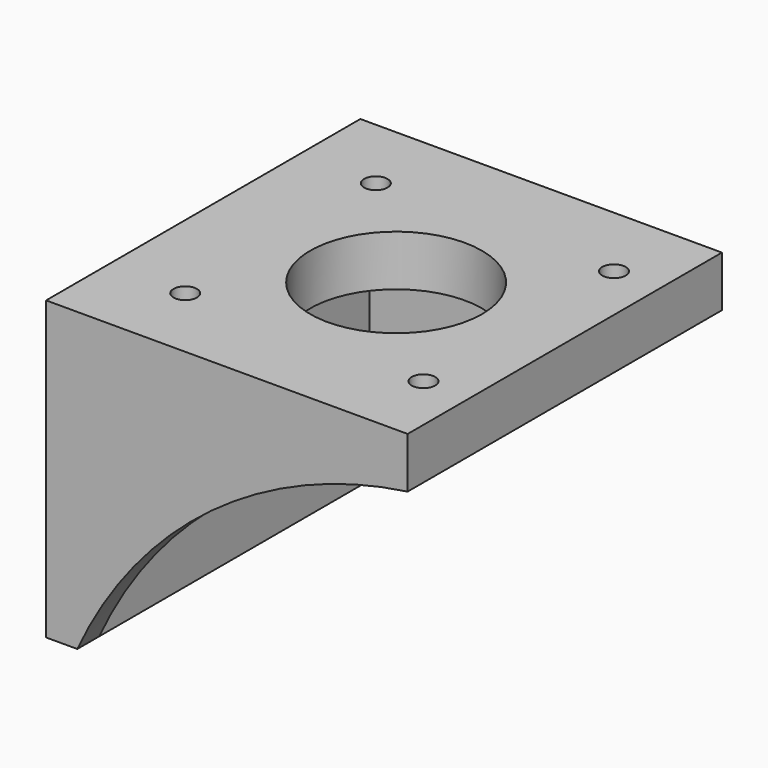
from build123d import *

# Parameters (mm, degrees)
F0_W     = 42.3
F0_H     = 42.3
F0_R     = 1.5
F0_R_2   = 11
F1_DEPTH = 6.5
F2_W     = 42.3
F2_H     = 38
F3_DEPTH = 4
F6_DEPTH = 4
F7_DEPTH = 4
F8_DEPTH = 0.5
F9_DEPTH = 0.5


with BuildPart() as f1:
    # F0 (on Top) → F1 (new body)
    with BuildSketch(Plane.XY):
        with Locations((0.9411764706, -0.8529411765)):
            Rectangle(F0_W, F0_H)
        with Locations((-14.3088235294, -16.1029411765)):
            Circle(F0_R, mode=Mode.SUBTRACT)
        with Locations((0.6911764706, -1.1029411765)):
            Circle(F0_R_2, mode=Mode.SUBTRACT)
        with Locations((16.1911764706, -16.1029411765)):
            Circle(F0_R, mode=Mode.SUBTRACT)
        with Locations((-14.3088235294, 14.3970588235)):
            Circle(F0_R, mode=Mode.SUBTRACT)
        with Locations((16.1911764706, 14.3970588235)):
            Circle(F0_R, mode=Mode.SUBTRACT)
    extrude(amount=F1_DEPTH)

    # F2 (on face) → F3 (join)
    with BuildSketch(Plane(origin=(-20.2088235294, 0, 0), x_dir=(0, -1, 0), z_dir=(-1, 0, 0))):
        with Locations((0.8529411765, -12.5)):
            Rectangle(F2_W, F2_H)
    extrude(amount=F3_DEPTH)

    # F5 (on face) → F6 (join)
    with BuildSketch(Plane(origin=(0, 20.2970588235, 0), x_dir=(-1, 0, 0), z_dir=(0, 1, 0))):
        with BuildLine():
            ThreePointArc((-22.0911764706, 0), (3.080762749, -10.3491101908), (20.2088235294, -31.5))
            Line((20.2088235294, -31.5), (20.2088235294, 0))
            Line((20.2088235294, 0), (-22.0911764706, 0))
        make_face()
        Polygon((20.2088235294, 0), (20.2088235294, -31.5), (24.2088235294, -31.5), (24.2088235294, 6.5), (-22.0911764706, 6.5), (-22.0911764706, 0), align=None)
    extrude(amount=F6_DEPTH)

    # F4 (on face) → F7 (join)
    with BuildSketch(Plane.XZ.offset(22.0029411765)):
        with BuildLine():
            ThreePointArc((-20.2088235294, -31.5), (-3.080762749, -10.3491101908), (22.0911764706, 0))
            Line((22.0911764706, 0), (-20.2088235294, 0))
            Line((-20.2088235294, 0), (-20.2088235294, -31.5))
        make_face()
        Polygon((-20.2088235294, 0), (22.0911764706, 0), (22.0911764706, 6.5), (-24.2088235294, 6.5), (-24.2088235294, -31.5), (-20.2088235294, -31.5), align=None)
    extrude(amount=F7_DEPTH)

    # F8 (cut): a face of the model
    f8_faces = [f1.faces().sort_by_distance(p)[0] for p in [
        (-9.1642811897, -22.0029411765, -8.7688606087),
    ]]
    extrude(f8_faces, amount=-F8_DEPTH, mode=Mode.SUBTRACT)

    # F9 (cut): a face of the model
    f9_faces = [f1.faces().sort_by_distance(p)[0] for p in [
        (-9.1642811897, 20.2970588235, -8.7688606087),
    ]]
    extrude(f9_faces, amount=-F9_DEPTH, mode=Mode.SUBTRACT)


solid = f1.part
